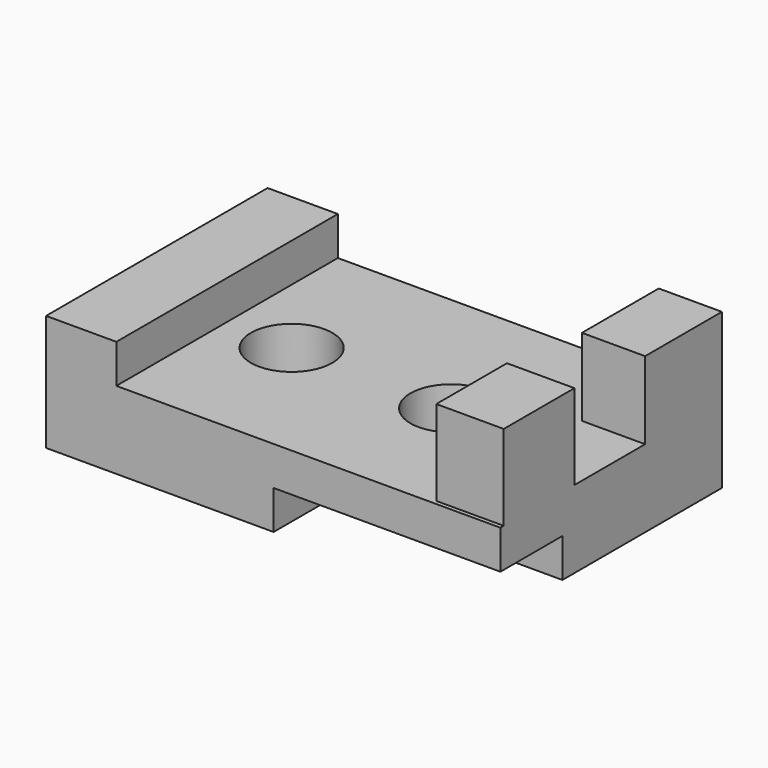
from build123d import *

# Parameters (mm, degrees)
F0_W     = 148.855813
F0_H     = 90.709016
F1_DEPTH = 25.4
F2_W     = 74.311614
F2_H     = 12.7
F3_DEPTH = 25.4
F4_W     = 23.026131
F4_H     = 90.709016
F5_DEPTH = 12.7
F6_W     = 20.700261
F6_H     = 31.462135
F8_DEPTH = 25.4
F7_W     = 22.095785
F7_H     = 28.945672
F9_DEPTH = 27.94
F12_D    = 26.67
F14_D    = 26.67


with BuildPart() as f1:
    # F0 (on Top) → F1 (new body)
    with BuildSketch(Plane.XY):
        with Locations((-0.116293, -8.373141)):
            Rectangle(F0_W, F0_H)
    extrude(amount=F1_DEPTH)

    # F2 (on face) → F3 (cut)
    with BuildSketch(Plane.XZ.offset(53.727649)):
        with Locations((37.155807, 6.35)):
            Rectangle(F2_W, F2_H)
    extrude(amount=-F3_DEPTH, mode=Mode.SUBTRACT)

    # F4 (on face) → F5 (join)
    with BuildSketch(Plane.XY.offset(25.4)):
        with Locations((-63.031133, -8.373141)):
            Rectangle(F4_W, F4_H)
    extrude(amount=F5_DEPTH)

    # F6 (on face) → F8 (join)
    with BuildSketch(Plane.XY.offset(25.4)):
        with Locations((63.961483, 21.2503)):
            Rectangle(F6_W, F6_H)
    extrude(amount=F8_DEPTH)

    # F7 (on face) → F9 (join)
    with BuildSketch(Plane.XY.offset(25.4)):
        with Locations((63.263721, -37.899266)):
            Rectangle(F7_W, F7_H)
    extrude(amount=F9_DEPTH)

    # F12 (through all)
    with Locations(Plane.XY.offset(25.4)):
        with Locations((-29.65487, -9.282531)):
            Hole(F12_D / 2)

    # F14 (through all)
    with Locations(Plane.XY.offset(25.4)):
        with Locations((23.142425, -9.940388)):
            Hole(F14_D / 2)


solid = f1.part
